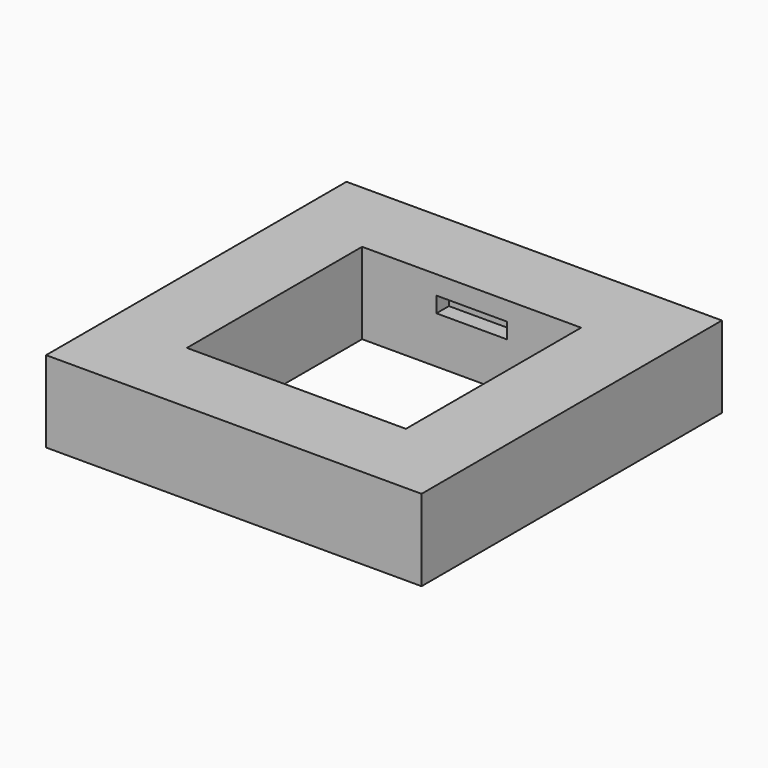
from build123d import *

# Parameters (mm, degrees)
BOX021_W     = 4.5
BOX021_H     = 1
BOX021_DEPTH = 1
BOX020_W     = 4.5
BOX020_H     = 1
BOX020_DEPTH = 1
BOX019_W     = 14
BOX019_H     = 14
BOX019_DEPTH = 5.2
BOX018_W     = 24
BOX018_H     = 24
BOX018_DEPTH = 5.2


with BuildPart() as slot_top001:
    # Box021 → Box021 (new body)
    with BuildSketch(Plane(origin=(9.75, 19, -2.2), x_dir=(1, 0, 0), z_dir=(0, 0, 1))):
        with Locations((2.25, 0.5)):
            Rectangle(BOX021_W, BOX021_H)
    extrude(amount=BOX021_DEPTH)


with BuildPart() as slot_bottom001:
    # Box020 → Box020 (new body)
    with BuildSketch(Plane(origin=(9.75, 4, -2.2), x_dir=(1, 0, 0), z_dir=(0, 0, 1))):
        with Locations((2.25, 0.5)):
            Rectangle(BOX020_W, BOX020_H)
    extrude(amount=BOX020_DEPTH)


with BuildPart() as cutout001:
    # Box019 → Box019 (new body)
    with BuildSketch(Plane(origin=(5, 5, 0), x_dir=(1, 0, 0), z_dir=(0, 0, 1))):
        with Locations((7, 7)):
            Rectangle(BOX019_W, BOX019_H)
    extrude(amount=BOX019_DEPTH)


with BuildPart() as cut009:
    # Box018 → Box018 (new body)
    with BuildSketch(Plane.XY):
        with Locations((12, 12)):
            Rectangle(BOX018_W, BOX018_H)
    extrude(amount=BOX018_DEPTH)

    # Cut007: cut CutOut001
    add(cutout001.part, mode=Mode.SUBTRACT)


with BuildPart() as cut009_1:
    # Cut007 placement: moved
    add(cut009.part.moved(Location((0, 0, -5.2))))

    # Cut008: cut slot_bottom001
    add(slot_bottom001.part, mode=Mode.SUBTRACT)

    # Cut009: cut slot_top001
    add(slot_top001.part, mode=Mode.SUBTRACT)


solid = cut009_1.part
